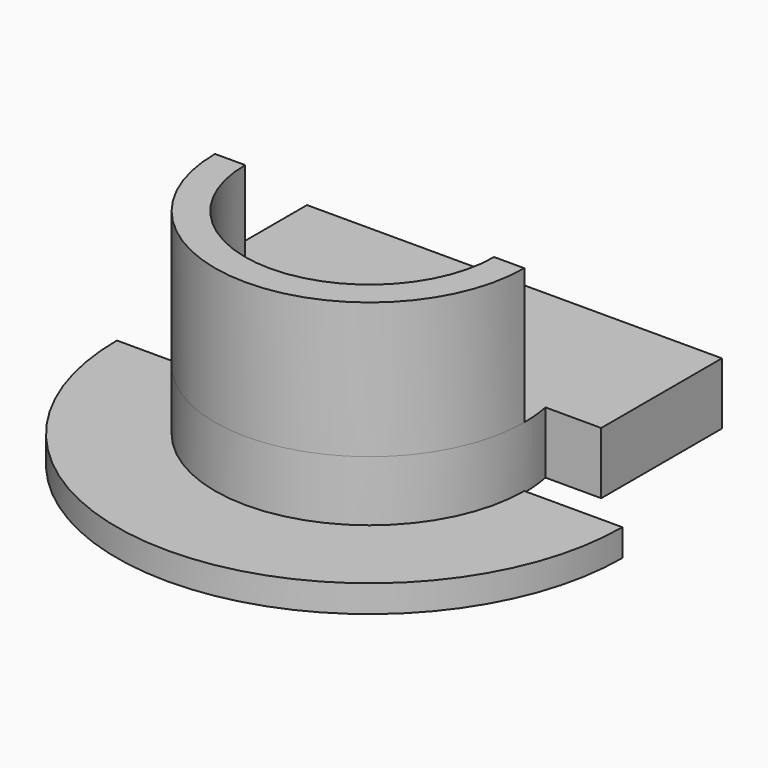
from build123d import *

# Parameters (mm, degrees)
F1_DEPTH      = 1.8
F2_DEPTH      = 4
F2_DEPTH_BACK = 0.1
F3_DEPTH      = 13
F3_DEPTH_BACK = 1.7
F4_W          = 4.4
F4_H          = 4.4
F5_DEPTH      = 10
F6_DEPTH      = 3
F7_DEPTH      = 6


with BuildPart() as f1:
    # F0 (on Top) → F1 (new body)
    with BuildSketch(Plane.XY):
        with BuildLine():
            Line((-13.75, 0), (-16.75, 0))
            ThreePointArc((-16.75, 0), (0, -16.75), (16.75, 0))
            Line((16.75, 0), (13.75, 0))
            Line((13.75, 0), (10.25, 0))
            ThreePointArc((10.25, 0), (0, -10.25), (-10.25, 0))
            Line((-10.25, 0), (-13.75, 0))
        make_face()
        with BuildLine():
            Line((-8.25, 0), (-10.25, 0))
            ThreePointArc((-10.25, 0), (0, -10.25), (10.25, 0))
            Line((10.25, 0), (8.25, 0))
            ThreePointArc((8.25, 0), (0, -8.25), (-8.25, 0))
        make_face()
        with BuildLine():
            Line((8.25, 0), (-8.25, 0))
            ThreePointArc((-8.25, 0), (0, -8.25), (8.25, 0))
        make_face()
        with BuildLine():
            Line((-8.25, 0), (-10.25, 0))
            ThreePointArc((-10.25, 0), (0, -10.25), (10.25, 0))
            Line((10.25, 0), (8.25, 0))
            ThreePointArc((8.25, 0), (0, -8.25), (-8.25, 0))
        make_face()
    extrude(amount=-F1_DEPTH)

    # F0 (on Top) → F2 (join, two sides)
    with BuildSketch(Plane.XY) as f2_sk:
        with BuildLine():
            ThreePointArc((11.6859958925, 12), (12.7761141335, 10.8320546365), (13.75, 9.5655632349))
            Line((13.75, 9.5655632349), (13.75, 12))
            Line((13.75, 12), (11.6859958925, 12))
        make_face()
        with BuildLine():
            ThreePointArc((-10.0529846314, 2), (-10.2006272472, 1.0048401683), (-10.25, 0))
            Line((-10.25, 0), (-8.25, 0))
            ThreePointArc((-8.25, 0), (-8.1882451935, 1.0075418854), (-8.0039052968, 2))
            Line((-8.0039052968, 2), (-10.0529846314, 2))
        make_face()
        with BuildLine():
            ThreePointArc((-8.0039052968, 2), (-8.1882451935, 1.0075418854), (-8.25, 0))
            Line((-8.25, 0), (8.25, 0))
            ThreePointArc((8.25, 0), (8.1882451935, 1.0075418854), (8.0039052968, 2))
            Line((8.0039052968, 2), (-8.0039052968, 2))
        make_face()
        with BuildLine():
            Line((8.25, 0), (10.25, 0))
            ThreePointArc((10.25, 0), (10.2006272472, 1.0048401683), (10.0529846314, 2))
            Line((10.0529846314, 2), (8.0039052968, 2))
            ThreePointArc((8.0039052968, 2), (8.1882451935, 1.0075418854), (8.25, 0))
        make_face()
        with BuildLine():
            ThreePointArc((-11.6859958925, 12), (-12.7761141335, 10.8320546365), (-13.75, 9.5655632349))
            Line((-13.75, 9.5655632349), (-13.75, 2))
            Line((-13.75, 2), (-10.0529846314, 2))
            ThreePointArc((-10.0529846314, 2), (0, 10.25), (10.0529846314, 2))
            Line((10.0529846314, 2), (13.75, 2))
            Line((13.75, 2), (13.75, 9.5655632349))
            ThreePointArc((13.75, 9.5655632349), (12.7761141335, 10.8320546365), (11.6859958925, 12))
            Line((11.6859958925, 12), (-11.6859958925, 12))
        make_face()
        with BuildLine():
            ThreePointArc((-8.0039052968, 2), (-8.1882451935, 1.0075418854), (-8.25, 0))
            Line((-8.25, 0), (8.25, 0))
            ThreePointArc((8.25, 0), (8.1882451935, 1.0075418854), (8.0039052968, 2))
            Line((8.0039052968, 2), (-8.0039052968, 2))
        make_face()
        with BuildLine():
            Line((8.25, 0), (-8.25, 0))
            ThreePointArc((-8.25, 0), (0, -8.25), (8.25, 0))
        make_face()
        with BuildLine():
            Line((-8.25, 0), (-10.25, 0))
            ThreePointArc((-10.25, 0), (0, -10.25), (10.25, 0))
            Line((10.25, 0), (8.25, 0))
            ThreePointArc((8.25, 0), (0, -8.25), (-8.25, 0))
        make_face()
        with BuildLine():
            Line((-8.25, 0), (-10.25, 0))
            ThreePointArc((-10.25, 0), (0, -10.25), (10.25, 0))
            Line((10.25, 0), (8.25, 0))
            ThreePointArc((8.25, 0), (0, -8.25), (-8.25, 0))
        make_face()
        with BuildLine():
            Line((8.25, 0), (-8.25, 0))
            ThreePointArc((-8.25, 0), (0, -8.25), (8.25, 0))
        make_face()
        with BuildLine():
            ThreePointArc((10.0529846314, 2), (0, 10.25), (-10.0529846314, 2))
            Line((-10.0529846314, 2), (-8.0039052968, 2))
            ThreePointArc((-8.0039052968, 2), (0, 8.25), (8.0039052968, 2))
            Line((8.0039052968, 2), (10.0529846314, 2))
        make_face()
        with BuildLine():
            ThreePointArc((8.0039052968, 2), (0, 8.25), (-8.0039052968, 2))
            Line((-8.0039052968, 2), (8.0039052968, 2))
        make_face()
        with BuildLine():
            Line((-13.75, 12), (-13.75, 9.5655632349))
            ThreePointArc((-13.75, 9.5655632349), (-12.7761141335, 10.8320546365), (-11.6859958925, 12))
            Line((-11.6859958925, 12), (-13.75, 12))
        make_face()
    extrude(amount=F2_DEPTH)
    extrude(f2_sk.sketch, amount=-F2_DEPTH_BACK)

    # F0 (on Top) → F3 (join, two sides)
    with BuildSketch(Plane.XY) as f3_sk:
        with BuildLine():
            Line((-8.25, 0), (-10.25, 0))
            ThreePointArc((-10.25, 0), (0, -10.25), (10.25, 0))
            Line((10.25, 0), (8.25, 0))
            ThreePointArc((8.25, 0), (0, -8.25), (-8.25, 0))
        make_face()
    extrude(amount=F3_DEPTH)
    extrude(f3_sk.sketch, amount=-F3_DEPTH_BACK)

    # F4 (on face) → F5 (cut)
    with BuildSketch(Plane.XY.offset(4)):
        with Locations((0, -3.653314048)):
            Rectangle(F4_W, F4_H)
    extrude(amount=-F5_DEPTH, mode=Mode.SUBTRACT)

    # F4 (on face) → F6 (join)
    with BuildSketch(Plane.XY.offset(4)):
        Polygon((-3.55, -0.103314048), (-2.2, -0.103314048), (-2.2, 0.696685952), (-4.35, 0.696685952), (-4.35, -1.453314048), (-3.55, -1.453314048), align=None)
        Polygon((2.2, -0.103314048), (3.55, -0.103314048), (3.55, -1.453314048), (4.35, -1.453314048), (4.35, 0.696685952), (2.2, 0.696685952), align=None)
    extrude(amount=F6_DEPTH)

    # F4 (on face) → F7 (join)
    with BuildSketch(Plane.XY.offset(4)):
        with BuildLine():
            Line((4.0217865093, -7.203314048), (3.55, -7.203314048))
            Line((3.55, -7.203314048), (-3.55, -7.203314048))
            Line((-3.55, -7.203314048), (-4.0217865093, -7.203314048))
            ThreePointArc((-4.0217865093, -7.203314048), (0, -8.25), (4.0217865093, -7.203314048))
        make_face()
    extrude(amount=F7_DEPTH)


solid = f1.part
